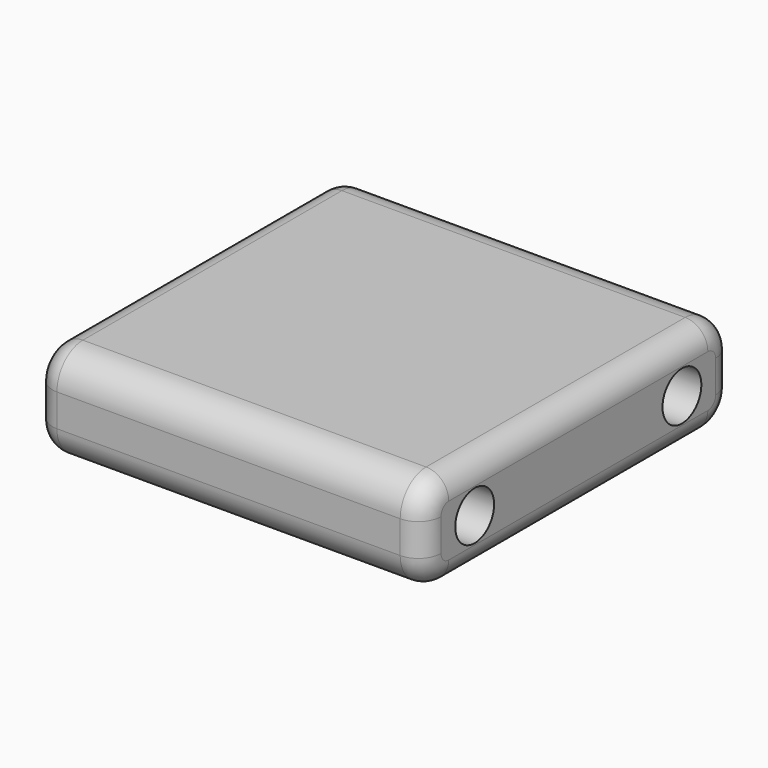
from build123d import *

# Parameters (mm, degrees)
F0_W     = 76.2
F0_H     = 76.2
F1_DEPTH = 19.05
F3_D     = 9.525
F4_R     = 6.35
F5_R     = 4.445


with BuildPart() as f1:
    # F0 (on Top) → F1 (new body)
    with BuildSketch(Plane.XY):
        Rectangle(F0_W, F0_H)
    extrude(amount=F1_DEPTH)

    # F3 (through all)
    with Locations(Plane(origin=(-38.1, 0, 0), x_dir=(0, -1, 0), z_dir=(-1, 0, 0))):
        with Locations((-25.4, 9.525), (25.4, 9.525)):
            Hole(F3_D / 2)

    # F4
    f4_edges = [f1.edges().sort_by_distance(p)[0] for p in [
        (0, -38.1, 19.05),
        (0, -38.1, 0),
        (0, 38.1, 19.05),
        (0, 38.1, 0),
    ]]
    fillet(f4_edges, radius=F4_R)

    # F5
    f5_edges = [f1.edges().sort_by_distance(p)[0] for p in [
        (-38.1, 0, 19.05),
        (38.1, 0, 19.05),
    ]]
    fillet(f5_edges, radius=F5_R)


solid = f1.part
